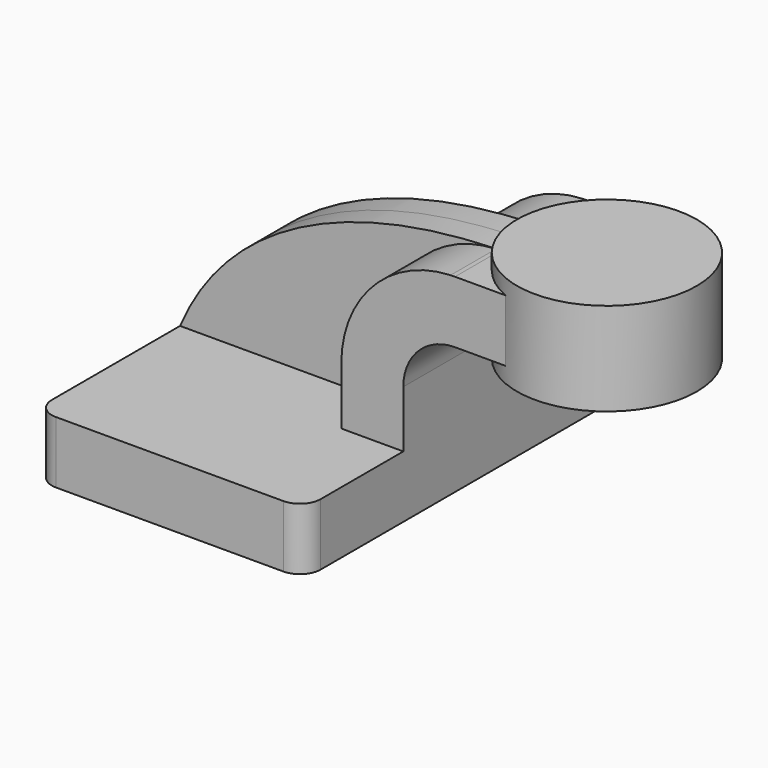
from build123d import *

# Parameters (mm, degrees)
F1_DEPTH = 63.5
F0_W     = 23.171081849
F0_H     = 19.05
F2_DEPTH = 25.4
F3_DEPTH = 7.9375
F5_R     = 6.35


with BuildPart() as f1:
    # F0 (on Front) → F1 (new body, symmetric)
    with BuildSketch(Plane.XZ):
        Polygon((22.225, 9.525), (-41.275, 9.525), (-41.275, -9.525), (41.275, -9.525), (41.275, 9.525), align=None)
    extrude(amount=F1_DEPTH, both=True)

    # F0 (on Front) → F2 (join, symmetric)
    with BuildSketch(Plane.XZ):
        with Locations((71.9105409245, 52.4002)):
            Rectangle(F0_W, F0_H)
        with BuildLine():
            Line((22.225, 27.0002), (22.225, 9.525))
            Line((22.225, 9.525), (41.275, 9.525))
            Line((41.275, 9.525), (41.275, 27.0002))
            ThreePointArc((41.275, 27.0002), (45.9246798487, 38.2255201513), (57.15, 42.8752))
            Line((57.15, 42.8752), (60.325, 42.8752))
            Line((60.325, 42.8752), (60.325, 61.9252))
            Line((60.325, 61.9252), (57.15, 61.9252))
            add(Edge.make_bspline(
                [(55.7982156024, 61.8990295497), (56.2487884274, 61.909374971), (56.6993942137, 61.9180941174), (57.15, 61.9252)],
                knots=[110.2855018647, 110.2855018647, 110.2855018647, 110.2855018647, 111.5045361635, 111.5045361635, 111.5045361635, 111.5045361635], degree=3))
            ThreePointArc((55.7982156024, 61.8990295497), (31.9809049121, 51.2132600597), (22.225, 27.0002))
        make_face()
    extrude(amount=F2_DEPTH, both=True)

    # F0 (on Front) → F3 (join, symmetric)
    with BuildSketch(Plane.XZ):
        with BuildLine():
            add(Edge.make_bspline(
                [(-41.275, 9.525), (-25.4582592858, 46.7164983248), (15.0350884427, 60.9630838009), (55.7982156024, 61.8990295497)],
                knots=[0, 0, 0, 0, 110.2855018647, 110.2855018647, 110.2855018647, 110.2855018647], degree=3))
            Line((-41.275, 9.525), (22.225, 9.525))
            Line((22.225, 9.525), (22.225, 27.0002))
            ThreePointArc((22.225, 27.0002), (31.9809049121, 51.2132600597), (55.7982156024, 61.8990295497))
        make_face()
    extrude(amount=F3_DEPTH, both=True)

    # F0 (on Front) → F4 (revolve)
    with BuildSketch(Plane.XZ):
        Polygon((83.496081849, 66.675), (83.496081849, 61.9252), (83.496081849, 42.8752), (83.496081849, 38.1), (111.125, 38.1), (111.125, 66.675), align=None)
    revolve(axis=Axis((83.496081849, 0, 52.3875), (0, 0, 1)))

    # F5
    f5_edges = [f1.edges().sort_by_distance(p)[0] for p in [
        (41.275, -63.5, 0),
        (-41.275, -63.5, 0),
        (41.275, 63.5, 0),
        (-41.275, 63.5, 0),
    ]]
    fillet(f5_edges, radius=F5_R)


solid = f1.part
